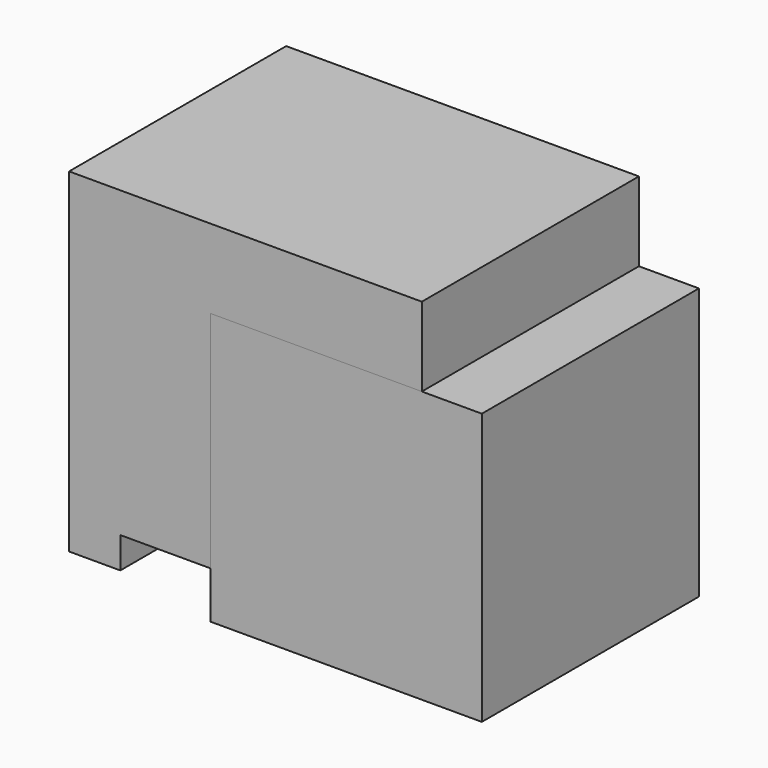
from build123d import *

# Parameters (mm, degrees)
F1_DEPTH = 30
F2_W     = 30
F2_H     = 30
F3_DEPTH = 30


with BuildPart() as f1:
    # F0 (on Front) → F1 (new body)
    with BuildSketch(Plane.XZ):
        Polygon((-56.291366, 53.192597), (-56.291366, 16.192597), (-50.624866, 16.192597), (-50.624866, 19.637207), (-39.624866, 19.637207), (-39.624866, 16.192597), (-33.957866, 16.192597), (-33.957866, 19.637207), (-22.957866, 19.637207), (-22.957866, 16.192597), (-17.291366, 16.192597), (-17.291366, 53.192597), align=None)
    extrude(amount=F1_DEPTH)


with BuildPart() as f3:
    # F2 (on Front) → F3 (new body)
    with BuildSketch(Plane.XZ):
        with Locations((-25.655882, 29.448131)):
            Rectangle(F2_W, F2_H)
    extrude(amount=F3_DEPTH)


solid = Compound([f1.part, f3.part])
